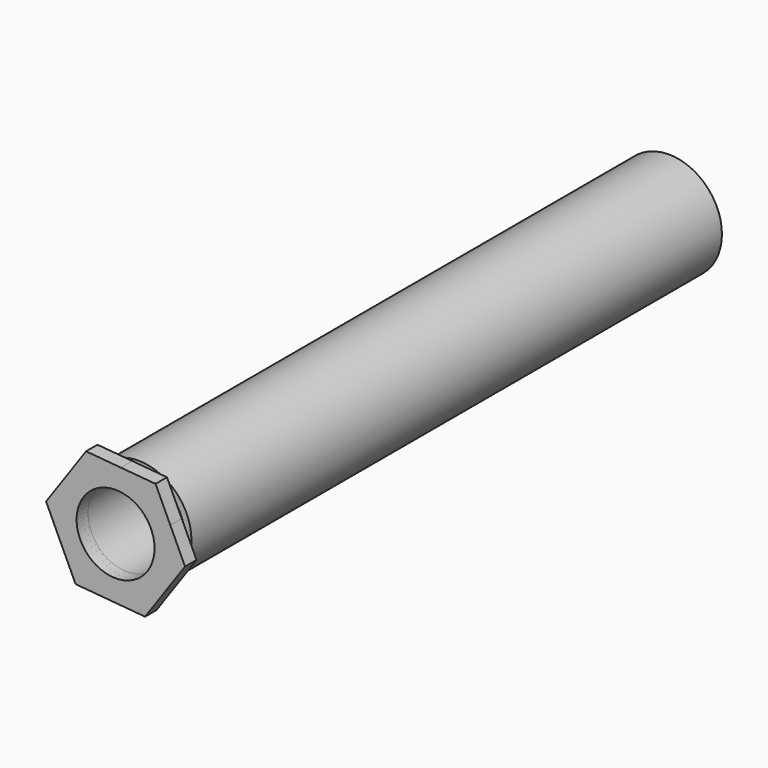
from build123d import *

# Parameters (mm, degrees)
F0_R      = 2.921
F1_DEPTH  = 38.1
F3_DEPTH  = 0.7874
F5_W      = 0.7874
F5_H      = 0.3556
F8_D      = 4.4958
F8_DEPTH  = 10.0076
F8_TIP    = 1.3506745855
F9_R      = 2.1463
F10_DEPTH = 35.56


with BuildPart() as f1:
    # F0 (on Front) → F1 (new body)
    with BuildSketch(Plane.XZ):
        Circle(F0_R)
    extrude(amount=F1_DEPTH)

    # F5 (on Right) → F6 (revolve, cut)
    with BuildSketch(Plane.YZ):
        with Locations((-36.9189, 2.7432)):
            Rectangle(F5_W, F5_H)
    revolve(axis=Axis((0, -34.1169198469, 0), (0, 1, 0)), mode=Mode.SUBTRACT)

    # F8
    with Locations(Plane(origin=(0, 0, 0), x_dir=(-1, 0, 0), z_dir=(0, 1, 0))):
        with Locations((0, 0)):
            Hole(F8_D / 2, depth=F8_DEPTH)
            with Locations((0, 0, -(F8_DEPTH + F8_TIP / 2))):  # 118° drill point
                Cone(0, F8_D / 2, F8_TIP, mode=Mode.SUBTRACT)


with BuildPart() as f3:
    # F2 (on face) → F3 (new body)
    with BuildSketch(Plane.XZ.offset(38.1)):
        with BuildLine():
            ThreePointArc((2.7267165445, -1.9069891573), (3.1736782595, -0.9996784808), (3.3274, 0))
            ThreePointArc((3.3274, 0), (3.2483252364, 0.7210921708), (3.0148593263, 1.4079112197))
            ThreePointArc((3.0148593263, 1.4079112197), (1.9069891486, 2.7267165505), (0.2881427638, 3.3149003767))
            ThreePointArc((0.2881427638, 3.3149003767), (-1.4079112403, 3.0148593167), (-2.7267165621, 1.9069891321))
            ThreePointArc((-2.7267165621, 1.9069891321), (-3.3149003765, 0.2881427663), (-3.0148593263, -1.4079112197))
            ThreePointArc((-3.0148593263, -1.4079112197), (-1.9069891539, -2.7267165469), (-0.2881427766, -3.3149003756))
            ThreePointArc((-0.2881427766, -3.3149003756), (1.4079112206, -3.0148593259), (2.7267165445, -1.9069891573))
        make_face()
        with BuildLine():
            ThreePointArc((3.0148593263, 1.4079112197), (3.2483252364, 0.7210921708), (3.3274, 0))
            ThreePointArc((3.3274, 0), (3.1736782595, -0.9996784808), (2.7267165445, -1.9069891573))
            Line((2.7267165445, -1.9069891573), (3.8277172487, -0.332718616))
            Line((3.8277172487, -0.332718616), (3.0148593263, 1.4079112197))
        make_face()
        with BuildLine():
            ThreePointArc((0.2881427638, 3.3149003767), (1.9069891486, 2.7267165505), (3.0148593263, 1.4079112197))
            Line((3.0148593263, 1.4079112197), (2.2020013981, 3.1485410679))
            Line((2.2020013981, 3.1485410679), (0.2881427638, 3.3149003767))
        make_face()
        with BuildLine():
            Line((1.6257158506, -3.4812596839), (2.7267165445, -1.9069891573))
            ThreePointArc((2.7267165445, -1.9069891573), (1.4079112206, -3.0148593259), (-0.2881427766, -3.3149003756))
            Line((-0.2881427766, -3.3149003756), (1.6257158506, -3.4812596839))
        make_face()
        with BuildLine():
            ThreePointArc((-2.7267165621, 1.9069891321), (-1.4079112403, 3.0148593167), (0.2881427638, 3.3149003767))
            Line((0.2881427638, 3.3149003767), (-1.6257158506, 3.4812596839))
            Line((-1.6257158506, 3.4812596839), (-2.7267165621, 1.9069891321))
        make_face()
        with BuildLine():
            Line((-2.2020013981, -3.1485410679), (-0.2881427766, -3.3149003756))
            ThreePointArc((-0.2881427766, -3.3149003756), (-1.9069891539, -2.7267165469), (-3.0148593263, -1.4079112197))
            Line((-3.0148593263, -1.4079112197), (-2.2020013981, -3.1485410679))
        make_face()
        with BuildLine():
            ThreePointArc((-3.0148593263, -1.4079112197), (-3.3149003765, 0.2881427663), (-2.7267165621, 1.9069891321))
            Line((-2.7267165621, 1.9069891321), (-3.8277172487, 0.332718616))
            Line((-3.8277172487, 0.332718616), (-3.0148593263, -1.4079112197))
        make_face()
    extrude(amount=-F3_DEPTH)


with BuildPart() as f10_tool:
    # F9 (on face) → F10 (new body)
    with BuildSketch(Plane.XZ.offset(38.1)):
        Circle(F9_R)
    extrude(amount=-F10_DEPTH)


with BuildPart() as f1_1:
    add(f1.part)

    # F10: cut by f10_tool
    add(f10_tool.part, mode=Mode.SUBTRACT)


with BuildPart() as f3_1:
    add(f3.part)

    # F10: cut by f10_tool
    add(f10_tool.part, mode=Mode.SUBTRACT)


solid = Compound([f1_1.part, f3_1.part])
